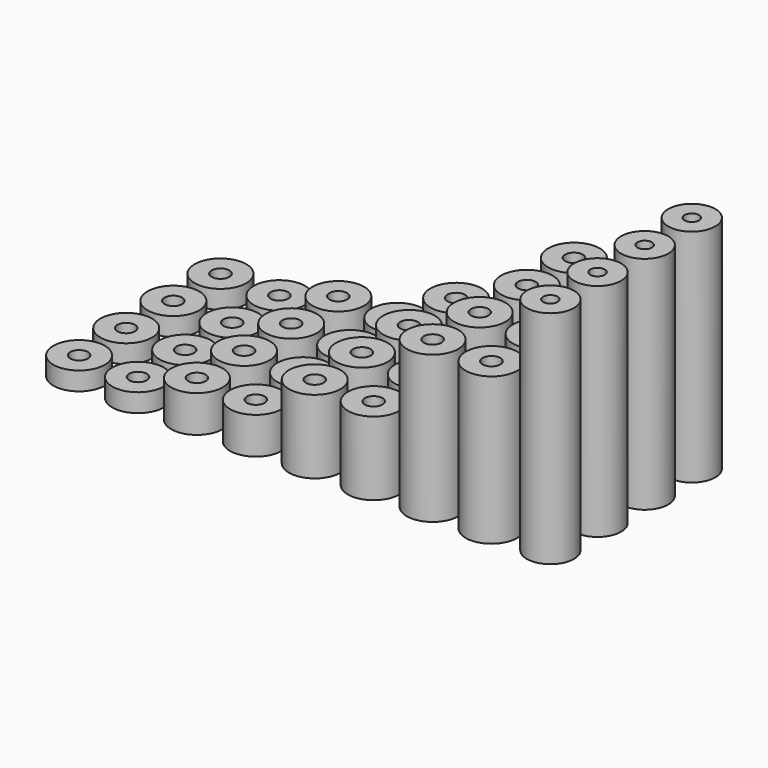
from build123d import *

# Parameters (mm, degrees)
F0_R     = 4.445
F0_R_2   = 1.524
F1_DEPTH = 3.175
F2_DEPTH = 6.35
F3_DEPTH = 12.7
F4_DEPTH = 25.4
F5_R     = 4.064
F5_R_2   = 1.24968
F6_DEPTH = 38.1


with BuildPart() as f1:
    # F0 (on Top) → F1 (new body)
    with BuildSketch(Plane.XY):
        with Locations((0, 30.48)):
            Circle(F0_R)
        with Locations((0, 30.48)):
            Circle(F0_R_2, mode=Mode.SUBTRACT)
        with Locations((0, 20.32)):
            Circle(F0_R)
        with Locations((0, 20.32)):
            Circle(F0_R_2, mode=Mode.SUBTRACT)
        with Locations((0, 10.16)):
            Circle(F0_R)
        with Locations((0, 10.16)):
            Circle(F0_R_2, mode=Mode.SUBTRACT)
        Circle(F0_R)
        Circle(F0_R_2, mode=Mode.SUBTRACT)
        with Locations((10.16, 0)):
            Circle(F0_R)
        with Locations((10.16, 0)):
            Circle(F0_R_2, mode=Mode.SUBTRACT)
        with Locations((10.16, 10.16)):
            Circle(F0_R)
        with Locations((10.16, 10.16)):
            Circle(F0_R_2, mode=Mode.SUBTRACT)
        with Locations((10.16, 20.32)):
            Circle(F0_R)
        with Locations((10.16, 20.32)):
            Circle(F0_R_2, mode=Mode.SUBTRACT)
        with Locations((10.16, 30.48)):
            Circle(F0_R)
        with Locations((10.16, 30.48)):
            Circle(F0_R_2, mode=Mode.SUBTRACT)
    extrude(amount=F1_DEPTH)


with BuildPart() as f2:
    # F0 (on Top) → F2 (new body)
    with BuildSketch(Plane.XY):
        with Locations((20.32, 30.48)):
            Circle(F0_R)
        with Locations((20.32, 30.48)):
            Circle(F0_R_2, mode=Mode.SUBTRACT)
        with Locations((20.32, 20.32)):
            Circle(F0_R)
        with Locations((20.32, 20.32)):
            Circle(F0_R_2, mode=Mode.SUBTRACT)
        with Locations((20.32, 10.16)):
            Circle(F0_R)
        with Locations((20.32, 10.16)):
            Circle(F0_R_2, mode=Mode.SUBTRACT)
        with Locations((20.32, 0)):
            Circle(F0_R)
        with Locations((20.32, 0)):
            Circle(F0_R_2, mode=Mode.SUBTRACT)
        with Locations((30.48, 0)):
            Circle(F0_R)
        with Locations((30.48, 0)):
            Circle(F0_R_2, mode=Mode.SUBTRACT)
        with Locations((30.48, 10.16)):
            Circle(F0_R)
        with Locations((30.48, 10.16)):
            Circle(F0_R_2, mode=Mode.SUBTRACT)
        with Locations((30.48, 20.32)):
            Circle(F0_R)
        with Locations((30.48, 20.32)):
            Circle(F0_R_2, mode=Mode.SUBTRACT)
        with Locations((30.48, 30.48)):
            Circle(F0_R)
        with Locations((30.48, 30.48)):
            Circle(F0_R_2, mode=Mode.SUBTRACT)
    extrude(amount=F2_DEPTH)


with BuildPart() as f3:
    # F0 (on Top) → F3 (new body)
    with BuildSketch(Plane.XY):
        with Locations((40.64, 30.48)):
            Circle(F0_R)
        with Locations((40.64, 30.48)):
            Circle(F0_R_2, mode=Mode.SUBTRACT)
        with Locations((40.64, 20.32)):
            Circle(F0_R)
        with Locations((40.64, 20.32)):
            Circle(F0_R_2, mode=Mode.SUBTRACT)
        with Locations((40.64, 10.16)):
            Circle(F0_R)
        with Locations((40.64, 10.16)):
            Circle(F0_R_2, mode=Mode.SUBTRACT)
        with Locations((40.64, 0)):
            Circle(F0_R)
        with Locations((40.64, 0)):
            Circle(F0_R_2, mode=Mode.SUBTRACT)
        with Locations((50.8, 0)):
            Circle(F0_R)
        with Locations((50.8, 0)):
            Circle(F0_R_2, mode=Mode.SUBTRACT)
        with Locations((50.8, 10.16)):
            Circle(F0_R)
        with Locations((50.8, 10.16)):
            Circle(F0_R_2, mode=Mode.SUBTRACT)
        with Locations((50.8, 20.32)):
            Circle(F0_R)
        with Locations((50.8, 20.32)):
            Circle(F0_R_2, mode=Mode.SUBTRACT)
        with Locations((50.8, 30.48)):
            Circle(F0_R)
        with Locations((50.8, 30.48)):
            Circle(F0_R_2, mode=Mode.SUBTRACT)
    extrude(amount=F3_DEPTH)


with BuildPart() as f4:
    # F0 (on Top) → F4 (new body)
    with BuildSketch(Plane.XY):
        with Locations((60.96, 30.48)):
            Circle(F0_R)
        with Locations((60.96, 30.48)):
            Circle(F0_R_2, mode=Mode.SUBTRACT)
        with Locations((60.96, 20.32)):
            Circle(F0_R)
        with Locations((60.96, 20.32)):
            Circle(F0_R_2, mode=Mode.SUBTRACT)
        with Locations((60.96, 10.16)):
            Circle(F0_R)
        with Locations((60.96, 10.16)):
            Circle(F0_R_2, mode=Mode.SUBTRACT)
        with Locations((60.96, 0)):
            Circle(F0_R)
        with Locations((60.96, 0)):
            Circle(F0_R_2, mode=Mode.SUBTRACT)
        with Locations((71.12, 30.48)):
            Circle(F0_R)
        with Locations((71.12, 30.48)):
            Circle(F0_R_2, mode=Mode.SUBTRACT)
        with Locations((71.12, 20.32)):
            Circle(F0_R)
        with Locations((71.12, 20.32)):
            Circle(F0_R_2, mode=Mode.SUBTRACT)
        with Locations((71.12, 10.16)):
            Circle(F0_R)
        with Locations((71.12, 10.16)):
            Circle(F0_R_2, mode=Mode.SUBTRACT)
        with Locations((71.12, 0)):
            Circle(F0_R)
        with Locations((71.12, 0)):
            Circle(F0_R_2, mode=Mode.SUBTRACT)
    extrude(amount=F4_DEPTH)


with BuildPart() as f6:
    # F5 (on Top) → F6 (new body)
    with BuildSketch(Plane.XY):
        with Locations((81.28, 0)):
            Circle(F5_R)
        with Locations((81.28, 0)):
            Circle(F5_R_2, mode=Mode.SUBTRACT)
        with Locations((81.28, 10.16)):
            Circle(F5_R)
        with Locations((81.28, 10.16)):
            Circle(F5_R_2, mode=Mode.SUBTRACT)
        with Locations((81.28, 20.32)):
            Circle(F5_R)
        with Locations((81.28, 20.32)):
            Circle(F5_R_2, mode=Mode.SUBTRACT)
        with Locations((81.28, 30.48)):
            Circle(F5_R)
        with Locations((81.28, 30.48)):
            Circle(F5_R_2, mode=Mode.SUBTRACT)
    extrude(amount=F6_DEPTH)


solid = Compound([f1.part, f2.part, f3.part, f4.part, f6.part])
